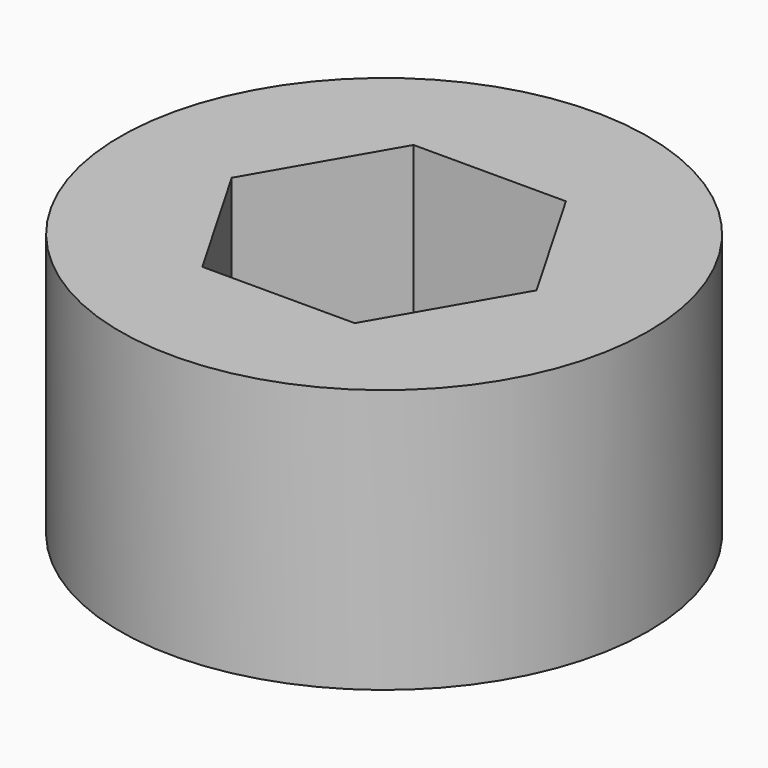
from build123d import *

# Parameters (mm, degrees)
F0_R     = 3.175
F1_DEPTH = 3.175
F2_R     = 1.5875
F3_DEPTH = 34.925


with BuildPart() as f1:
    # F0 (on Top) → F1 (new body)
    with BuildSketch(Plane.XY):
        Circle(F0_R)
        Polygon((-1.833087, 0), (-0.916544, 1.5875), (0.916544, 1.5875), (1.833087, 0), (0.916544, -1.5875), (-0.916544, -1.5875), align=None, mode=Mode.SUBTRACT)
    extrude(amount=F1_DEPTH)

    # F2 (on Top) → F3 (cut)
    with BuildSketch(Plane.XY):
        Circle(F2_R)
    extrude(amount=-F3_DEPTH, mode=Mode.SUBTRACT)


solid = f1.part
